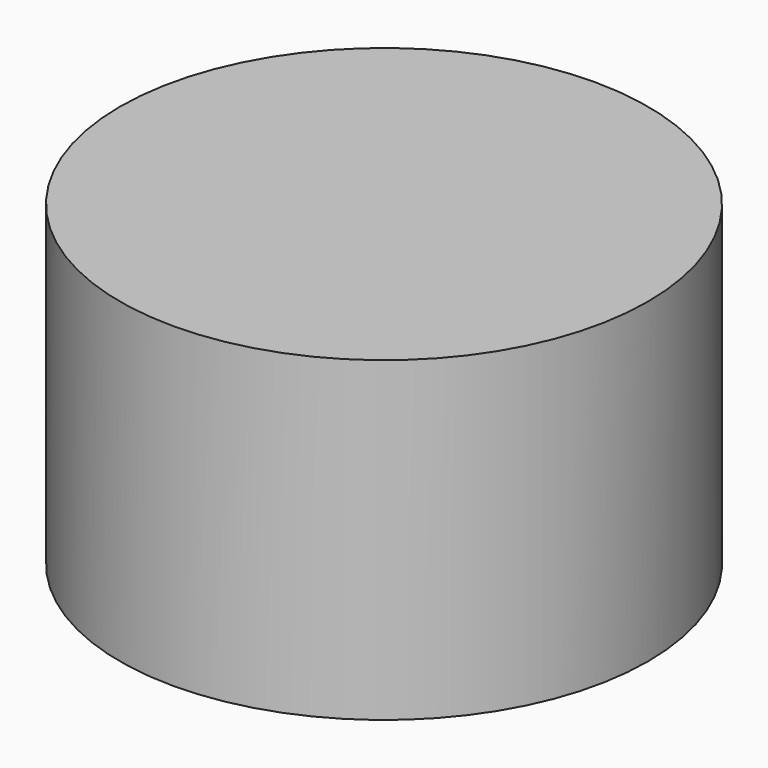
from build123d import *

# Parameters (mm, degrees)
F0_R     = 12.7
F0_R_2   = 10.16
F1_DEPTH = 2.54
F2_DEPTH = 12.7


with BuildPart() as f1:
    # F0 (on Top) → F1 (new body)
    with BuildSketch(Plane.XY):
        Circle(F0_R)
        Circle(F0_R_2, mode=Mode.SUBTRACT)
        Circle(F0_R_2)
    extrude(amount=F1_DEPTH)

    # F0 (on Top) → F2 (join)
    with BuildSketch(Plane.XY):
        Circle(F0_R)
        Circle(F0_R_2, mode=Mode.SUBTRACT)
    extrude(amount=-F2_DEPTH)


solid = f1.part
